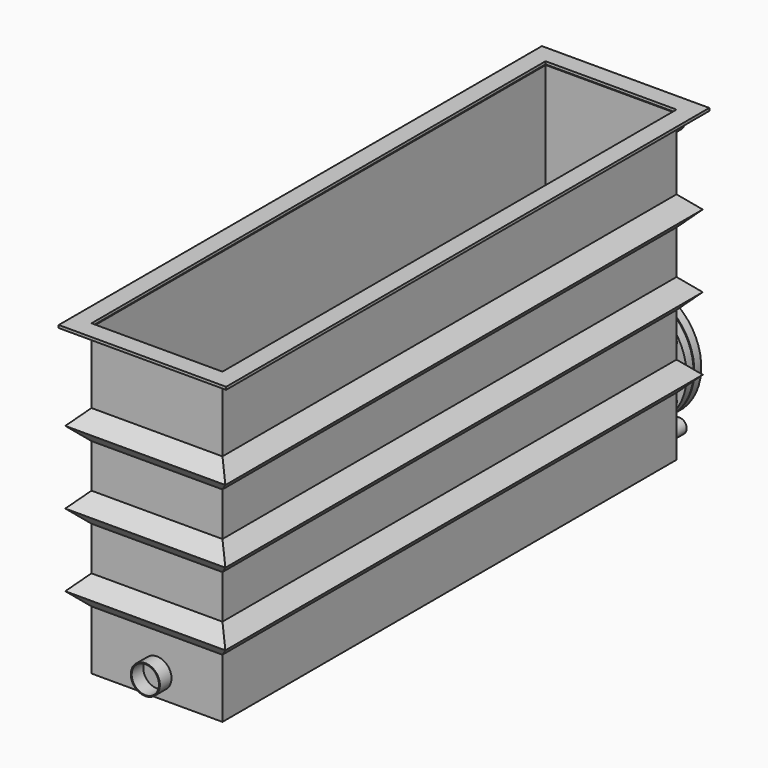
from build123d import *

# Parameters (mm, degrees)
F0_W      = 1981.2
F0_H      = 1066.8
F1_DEPTH  = 228.6
F2_T      = -3.175
F3_R      = 50.8
F3_R_2    = 47.625
F4_DEPTH  = 50.8
F6_DEPTH  = 457.2
F7_R      = 127
F7_R_2    = 123.825
F8_DEPTH  = 76.2
F9_R      = 203.2
F9_R_2    = 127
F10_DEPTH = 30.1625
F11_R     = 12.7
F12_DEPTH = 30.1625
F14_R     = 152.4
F14_R_2   = 127
F15_DEPTH = 3.175
F16_R     = 203.2
F17_DEPTH = 30.1625
F18_R     = 12.7
F19_DEPTH = 30.1625
F20_R     = 38.1
F20_R_2   = 36.5125
F20_R_3   = 25.4
F20_R_4   = 23.8125
F20_R_5   = 12.7
F20_R_6   = 11.1125
F21_DEPTH = 76.2
F33_W     = 584.2
F33_H     = 2108.2
F33_W_2   = 457.2
F33_H_2   = 1981.2
F35_DEPTH = 9.525


with BuildPart() as f1:
    # F0 (on Right) → F1 (new body, symmetric)
    with BuildSketch(Plane.YZ):
        Rectangle(F0_W, F0_H)
    extrude(amount=F1_DEPTH, both=True)

    # F2
    f2_openings = [f1.faces().sort_by_distance(p)[0] for p in [
        (0, 0, 533.4),
    ]]
    offset(amount=F2_T, openings=f2_openings)

    # F5 (on face) → F6 (join)
    with BuildSketch(Plane(origin=(0, -987.425, 0), x_dir=(-1, 0, 0), z_dir=(0, 1, 0))):
        Polygon((-50.8, -400.05), (-101.6, -514.35), (101.6, -514.35), (50.8, -400.05), align=None)
    extrude(amount=F6_DEPTH)

    # F7 (on face) → F8 (join)
    with BuildSketch(Plane(origin=(0, 990.6, 0), x_dir=(-1, 0, 0), z_dir=(0, 1, 0))):
        with Locations((0, -313.7260377407)):
            Circle(F7_R)
        with Locations((0, -313.7260377407)):
            Circle(F7_R_2, mode=Mode.SUBTRACT)
    extrude(amount=F8_DEPTH)

    # F20 (on face) → F21 (join)
    with BuildSketch(Plane(origin=(0, 990.6, 0), x_dir=(-1, 0, 0), z_dir=(0, 1, 0))):
        with Locations((-158.75, 465.1375)):
            Circle(F20_R)
        with Locations((-158.75, 465.1375)):
            Circle(F20_R_2, mode=Mode.SUBTRACT)
        with Locations((-177.8, -476.25)):
            Circle(F20_R_3)
        with Locations((-177.8, -476.25)):
            Circle(F20_R_4, mode=Mode.SUBTRACT)
        with Locations((177.8, 490.5375)):
            Circle(F20_R_5)
        with Locations((177.8, 490.5375)):
            Circle(F20_R_6, mode=Mode.SUBTRACT)
        with Locations((177.8, -488.8023771712)):
            Circle(F20_R_5)
        with Locations((177.8, -488.8023771712)):
            Circle(F20_R_6, mode=Mode.SUBTRACT)
    extrude(amount=F21_DEPTH)

    # F25: sweep along a path in F23
    with BuildLine(Plane.XY.offset(-276.225)) as f25_path:
        Line((-228.6, -990.6), (-225.425, 987.425))
        Line((-225.425, 987.425), (228.6, 990.6))
        Line((228.6, 990.6), (228.6, -990.6))
        Line((228.6, -990.6), (-228.6, -990.6))
    # F24 (on face) → F25 (sweep)
    with BuildSketch(Plane.XZ.offset(990.6)):
        Polygon((-228.6, -327.025), (-228.6, -276.225), (-228.6, -225.425), (-279.4, -276.225), align=None)
    sweep(path=f25_path.line, transition=Transition.RIGHT)

    # F32: sweep along a path in F30
    with BuildLine(Plane.XY.offset(231.775)) as f32_path:
        Line((-228.6, -990.6), (-228.6, 990.6))
        Line((-228.6, 990.6), (228.6, 990.6))
        Line((228.6, 990.6), (228.6, -990.6))
        Line((228.6, -990.6), (-228.6, -990.6))
    # F31 (on face) → F32 (sweep)
    with BuildSketch(Plane.XZ.offset(990.6)):
        Polygon((-228.6, 180.975), (-228.6, 231.775), (-228.6, 282.575), (-279.4, 231.775), align=None)
    sweep(path=f32_path.line, transition=Transition.RIGHT)

    # F34: sweep along a path in F27
    with BuildLine(Plane.XY.offset(-22.225)) as f34_path:
        Line((-228.6, -990.6), (-228.6, 990.6))
        Line((-228.6, 990.6), (228.6, 990.6))
        Line((228.6, 990.6), (228.6, -990.6))
        Line((228.6, -990.6), (-228.6, -990.6))
    # F28 (on face) → F34 (sweep)
    with BuildSketch(Plane.XZ.offset(990.6)):
        Polygon((-228.6, -73.025), (-228.6, -22.225), (-228.6, 28.575), (-279.4, -22.225), align=None)
    sweep(path=f34_path.line, transition=Transition.RIGHT)


with BuildPart() as f4:
    # F3 (on face) → F4 (new body)
    with BuildSketch(Plane.XZ.offset(990.6)):
        with Locations((0, -457.2)):
            Circle(F3_R)
        with Locations((0, -457.2)):
            Circle(F3_R_2, mode=Mode.SUBTRACT)
    extrude(amount=F4_DEPTH)


with BuildPart() as f10:
    # F9 (on face) → F10 (new body)
    with BuildSketch(Plane(origin=(0, 1066.8, 0), x_dir=(-1, 0, 0), z_dir=(0, 1, 0))):
        with Locations((0, -313.7260377407)):
            Circle(F9_R)
        with Locations((0, -313.7260377407)):
            Circle(F9_R_2, mode=Mode.SUBTRACT)
    extrude(amount=F10_DEPTH)

    # F11 (on face) → F12 (cut, through all)
    with BuildSketch(Plane(origin=(0, 1096.9625, 0), x_dir=(-1, 0, 0), z_dir=(0, 1, 0))):
        with Locations((0, -132.7510377407)):
            Circle(F11_R)
        with Locations((-90.4875, -156.9970902908)):
            Circle(F11_R)
        with Locations((-156.7289474499, -223.2385377407)):
            Circle(F11_R)
        with Locations((-180.975, -313.7260377407)):
            Circle(F11_R)
        with Locations((-156.7289474499, -404.2135377407)):
            Circle(F11_R)
        with Locations((-90.4875, -470.4549851906)):
            Circle(F11_R)
        with Locations((0, -494.7010377407)):
            Circle(F11_R)
        with Locations((90.4875, -470.4549851906)):
            Circle(F11_R)
        with Locations((156.7289474499, -404.2135377407)):
            Circle(F11_R)
        with Locations((180.975, -313.7260377407)):
            Circle(F11_R)
        with Locations((156.7289474499, -223.2385377407)):
            Circle(F11_R)
        with Locations((90.4875, -156.9970902908)):
            Circle(F11_R)
    extrude(amount=-F12_DEPTH, mode=Mode.SUBTRACT)

    # F14 (on face) → F15 (join)
    with BuildSketch(Plane(origin=(0, 1096.9625, 0), x_dir=(-1, 0, 0), z_dir=(0, 1, 0))):
        with Locations((0, -313.7260377407)):
            Circle(F14_R)
        with Locations((0, -313.7260377407)):
            Circle(F14_R_2, mode=Mode.SUBTRACT)
    extrude(amount=F15_DEPTH)

    # F16 (on face) → F17 (join)
    with BuildSketch(Plane(origin=(0, 1100.1375, 0), x_dir=(-1, 0, 0), z_dir=(0, 1, 0))):
        with Locations((0, -313.7260377407)):
            Circle(F16_R)
    extrude(amount=F17_DEPTH)

    # F18 (on face) → F19 (cut, through all)
    with BuildSketch(Plane(origin=(0, 1130.3, 0), x_dir=(-1, 0, 0), z_dir=(0, 1, 0))):
        with Locations((0, -132.7510377407)):
            Circle(F18_R)
        with Locations((-90.4875, -156.9970902908)):
            Circle(F18_R)
        with Locations((-156.7289474499, -223.2385377407)):
            Circle(F18_R)
        with Locations((-180.975, -313.7260377407)):
            Circle(F18_R)
        with Locations((-156.7289474499, -404.2135377407)):
            Circle(F18_R)
        with Locations((-90.4875, -470.4549851906)):
            Circle(F18_R)
        with Locations((0, -494.7010377407)):
            Circle(F18_R)
        with Locations((90.4875, -470.4549851906)):
            Circle(F18_R)
        with Locations((156.7289474499, -404.2135377407)):
            Circle(F18_R)
        with Locations((180.975, -313.7260377407)):
            Circle(F18_R)
        with Locations((156.7289474499, -223.2385377407)):
            Circle(F18_R)
        with Locations((90.4875, -156.9970902908)):
            Circle(F18_R)
    extrude(amount=-F19_DEPTH, mode=Mode.SUBTRACT)


with BuildPart() as f35:
    # F33 (on face) → F35 (new body)
    with BuildSketch(Plane.XY.offset(533.4)):
        Rectangle(F33_W, F33_H)
        Rectangle(F33_W_2, F33_H_2, mode=Mode.SUBTRACT)
    extrude(amount=F35_DEPTH)


solid = Compound([f1.part, f4.part, f10.part, f35.part])
